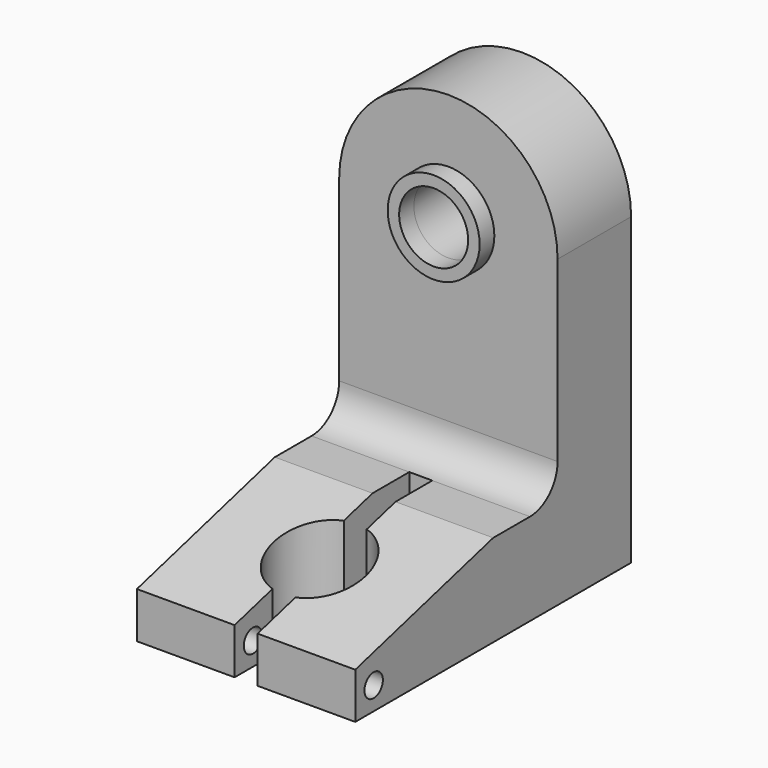
from build123d import *

# Parameters (mm, degrees)
PAD_DEPTH       = 40
SKETCH001_W     = 95
SKETCH001_H     = 40
PAD001_DEPTH    = 110
SKETCH002_R     = 20
SKETCH002_R_2   = 15
PAD002_DEPTH    = 8
SKETCH003_R     = 15
POCKET_DEPTH    = 40.001
FILLET_R        = 15
POCKET001_DEPTH = 40.001
POCKET002_DEPTH = 95.001
SKETCH006_R     = 5
POCKET003_DEPTH = 95.001


with BuildPart() as part:
    # Sketch → Pad (new body)
    with BuildSketch(Plane.XZ):
        with BuildLine():
            Line((47.5, 132.49995), (47.5, 0))
            Line((47.5, 0), (-47.5, 0))
            Line((-47.5, 0), (-47.5, 132.49995))
            ThreePointArc((47.5, 132.49995), (0, 180), (-47.5, 132.49995))
        make_face()
    extrude(amount=PAD_DEPTH)

    # Sketch001 → Pad001 (new body)
    with BuildSketch(Plane.XZ.offset(40)):
        with Locations((0, 20)):
            Rectangle(SKETCH001_W, SKETCH001_H)
    extrude(amount=PAD001_DEPTH)

    # Sketch002 → Pad002 (new body)
    with BuildSketch(Plane.XZ.offset(40)):
        with Locations((0, 132.5)):
            Circle(SKETCH002_R)
        with Locations((0, 132.5)):
            Circle(SKETCH002_R_2, mode=Mode.SUBTRACT)
    extrude(amount=PAD002_DEPTH)

    # Sketch003 → Pocket (cut, through all)
    with BuildSketch(Plane.XZ.offset(40)):
        with Locations((0, 132.5)):
            Circle(SKETCH003_R)
    extrude(amount=-POCKET_DEPTH, mode=Mode.SUBTRACT)

    # Fillet
    fillet_edges = [part.edges().sort_by_distance(p)[0] for p in [
        (0, -40, 40),
    ]]
    fillet(fillet_edges, radius=FILLET_R)

    # Sketch004 → Pocket001 (cut, through all)
    with BuildSketch(Plane(origin=(0, 0, 40), x_dir=(-1, 0, 0), z_dir=(0, 0, 1))):
        with BuildLine():
            ThreePointArc((-5, 129.364917), (-20, 110), (-5, 90.635083))
            Line((-5, 55), (-5, 90.635083))
            Line((5, 55), (-5, 55))
            Line((5, 90.635083), (5, 55))
            ThreePointArc((5, 90.635083), (20, 110), (5, 129.364917))
            Line((5, 129.364917), (5, 150))
            Line((5, 150), (-5, 150))
            Line((-5, 150), (-5, 129.364917))
        make_face()
    extrude(amount=-POCKET001_DEPTH, mode=Mode.SUBTRACT)

    # Sketch005 → Pocket002 (cut, through all)
    with BuildSketch(Plane(origin=(47.5, 0, 0), x_dir=(0, 0, 1), z_dir=(1, 0, 0))):
        Polygon((40, 150), (20, 150), (40, 75), align=None)
    extrude(amount=-POCKET002_DEPTH, mode=Mode.SUBTRACT)

    # Sketch006 → Pocket003 (cut, through all)
    with BuildSketch(Plane(origin=(47.5, 0, 0), x_dir=(0, 0, 1), z_dir=(1, 0, 0))):
        with Locations((10, 140)):
            Circle(SKETCH006_R)
    extrude(amount=-POCKET003_DEPTH, mode=Mode.SUBTRACT)


solid = part.part
